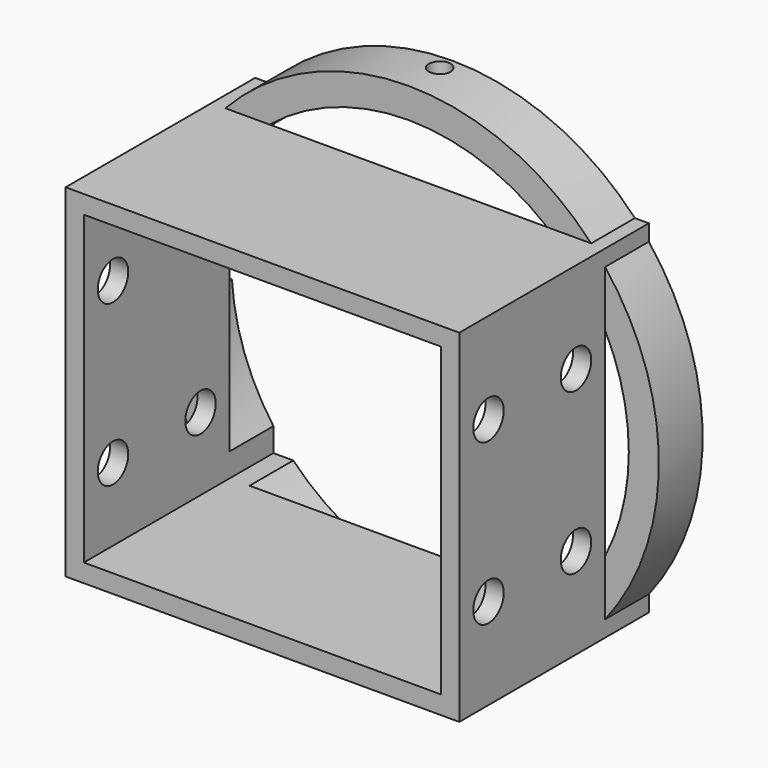
from build123d import *

# Parameters (mm, degrees)
F0_W      = 54.864
F0_H      = 47.752
F1_DEPTH  = 33.02
F2_W      = 24.892
F2_H      = 21.336
F3_DEPTH  = 33.02
F4_R      = 34.925
F4_R_2    = 30.734
F5_DEPTH  = 7.62
F6_R      = 2.6543
F7_DEPTH  = 76.2
F9_DEPTH  = 7.62
F11_DEPTH = 25.4
F12_R     = 30.734
F13_DEPTH = 7.62
F15_DEPTH = 5.08
F17_R     = 1.5113
F18_DEPTH = 127


with BuildPart() as f1:
    # F0 (on Front) → F1 (new body)
    with BuildSketch(Plane.XZ):
        Rectangle(F0_W, F0_H)
    extrude(amount=F1_DEPTH)

    # F2 (on face) → F3 (cut)
    with BuildSketch(Plane.XZ.offset(33.02)):
        with Locations((-12.446, 10.668)):
            Rectangle(F2_W, F2_H)
        with Locations((12.446, -10.668)):
            Rectangle(F2_W, F2_H)
        with Locations((-12.446, -10.668)):
            Rectangle(F2_W, F2_H)
        with Locations((12.446, 10.668)):
            Rectangle(F2_W, F2_H)
    extrude(amount=-F3_DEPTH, mode=Mode.SUBTRACT)

    # F4 (on face) → F5 (join)
    with BuildSketch(Plane(origin=(0, 0, 0), x_dir=(-1, 0, 0), z_dir=(0, 1, 0))):
        Circle(F4_R)
        Circle(F4_R_2, mode=Mode.SUBTRACT)
    extrude(amount=-F5_DEPTH)

    # F6 (on face) → F7 (cut)
    with BuildSketch(Plane.YZ.offset(27.432)):
        with Locations((-27.94, 11.176)):
            Circle(F6_R)
        with Locations((-27.94, -11.176)):
            Circle(F6_R)
        with Locations((-12.7, 11.176)):
            Circle(F6_R)
        with Locations((-12.7, -11.176)):
            Circle(F6_R)
    extrude(amount=-F7_DEPTH, mode=Mode.SUBTRACT)

    # F8 (on face) → F9 (join)
    with BuildSketch(Plane(origin=(0, 0, 0), x_dir=(-1, 0, 0), z_dir=(0, 1, 0))):
        Polygon((-15.239977, 28.93018), (-21.844286, 22.671998), (22.174528, 22.671998), (17.10213, 27.676882), (0, 33.06745), align=None)
        Polygon((-26.720829, -17.021414), (-26.720829, 16.84154), (-31.688731, 8.959086), (-33.177566, -3.639529), align=None)
        Polygon((-18.059891, -29.893076), (0, -33.054188), (13.156982, -30.942233), (22.121344, -22.471936), (-24.892, -22.471936), align=None)
        Polygon((26.667995, 16.763607), (26.667995, -17.988142), (32.70267, -7.179345), (32.70267, 5.721464), align=None)
    extrude(amount=-F9_DEPTH)

    # F10 (on face) → F11 (cut)
    with BuildSketch(Plane(origin=(0, 0, 0), x_dir=(-1, 0, 0), z_dir=(0, 1, 0))):
        Polygon((24.892, 21.336), (-22.121344, 21.336), (-24.892, 21.336), (-24.892, -18.026844), (-24.892, -21.336), (24.892, -21.336), align=None)
    extrude(amount=-F11_DEPTH, mode=Mode.SUBTRACT)

    # F12 (on face) → F13 (cut)
    with BuildSketch(Plane(origin=(0, 0, 0), x_dir=(-1, 0, 0), z_dir=(0, 1, 0))):
        Circle(F12_R)
    extrude(amount=-F13_DEPTH, mode=Mode.SUBTRACT)

    # F14 (on face) → F15 (cut)
    with BuildSketch(Plane(origin=(0, 0, 0), x_dir=(-1, 0, 0), z_dir=(0, 1, 0))):
        Polygon((34.873007, 1.905), (30.674904, 1.905), (30.031135, 1.905), (29.740494, -1.788886), (30.5029, -1.905), (30.674904, -1.905), (34.873007, -1.905), (38.508706, 0.957784), align=None)
    extrude(amount=-F15_DEPTH, mode=Mode.SUBTRACT)

    # F17 (on offset) → F18 (cut)
    with BuildSketch(Plane.XY.offset(76.2)):
        with Locations((0, -2.1463)):
            Circle(F17_R)
    extrude(amount=-F18_DEPTH, mode=Mode.SUBTRACT)


solid = f1.part
